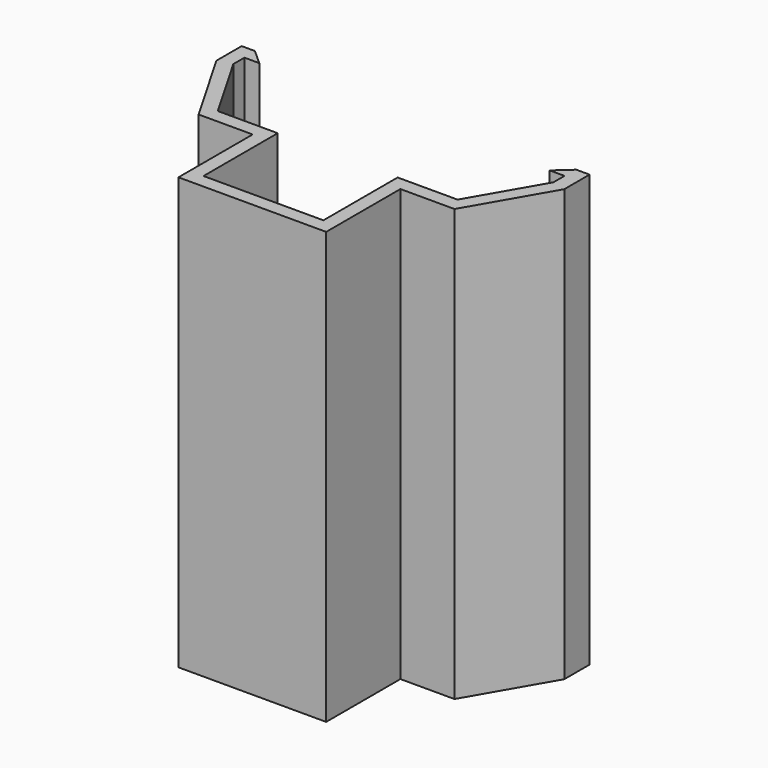
from build123d import *

# Parameters (mm, degrees)
F1_DEPTH = 93
F2_W     = 30.76568
F2_H     = 21.780368
F3_DEPTH = 3


with BuildPart() as f1:
    # F0 (on Top) → F1 (new body)
    with BuildSketch(Plane.XY):
        Polygon((15.92357, 0), (27.581504, 0), (37.5, 17.196862), (37.5, 24), (34.635104, 24), (31.3, 21), (34.5, 21), (34.5, 18), (25.84857, 3), (12.92357, 3), (12.92357, -17), (-12.92407, -17), (-12.92407, 3), (-25.84857, 3), (-34.5, 18), (-34.5, 21), (-31.3, 21), (-34.635104, 24), (-37.5, 24), (-37.5, 17.196862), (-27.581504, 0), (-15.92407, 0), (-15.92407, -20), (-12.92407, -20), (12.92357, -20), (15.92357, -20), align=None)
    extrude(amount=F1_DEPTH)

    # F2 (on Top) → F3 (join)
    with BuildSketch(Plane.XY):
        with Locations((-0.194695, -7.955824)):
            Rectangle(F2_W, F2_H)
    extrude(amount=F3_DEPTH)


solid = f1.part
